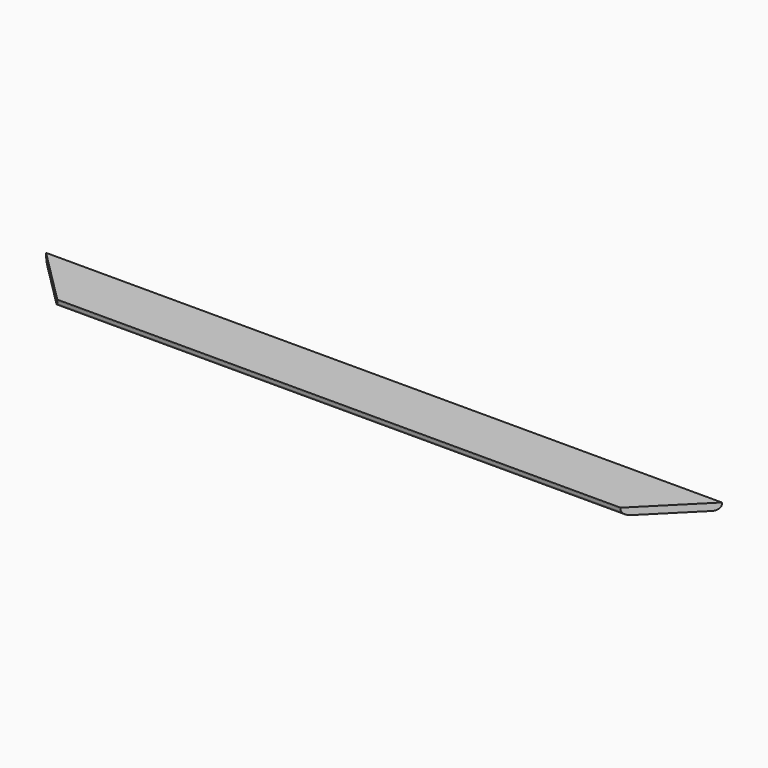
from build123d import *

# Parameters (mm, degrees)
F1_DEPTH = 3.175
F2_R     = 5.08


with BuildPart() as f1:
    # F0 (on Top) → F1 (new body, symmetric)
    with BuildSketch(Plane.XY):
        Polygon((304.414174, 0), (-305.185826, 0), (-254.385826, -50.8), (253.614174, -50.8), align=None)
    extrude(amount=F1_DEPTH, both=True)

    # F2
    f2_edges = [f1.edges().sort_by_distance(p)[0] for p in [
        (-0.385826, -50.8, -3.175),
        (-0.385826, 0, -3.175),
    ]]
    fillet(f2_edges, radius=F2_R)


solid = f1.part
